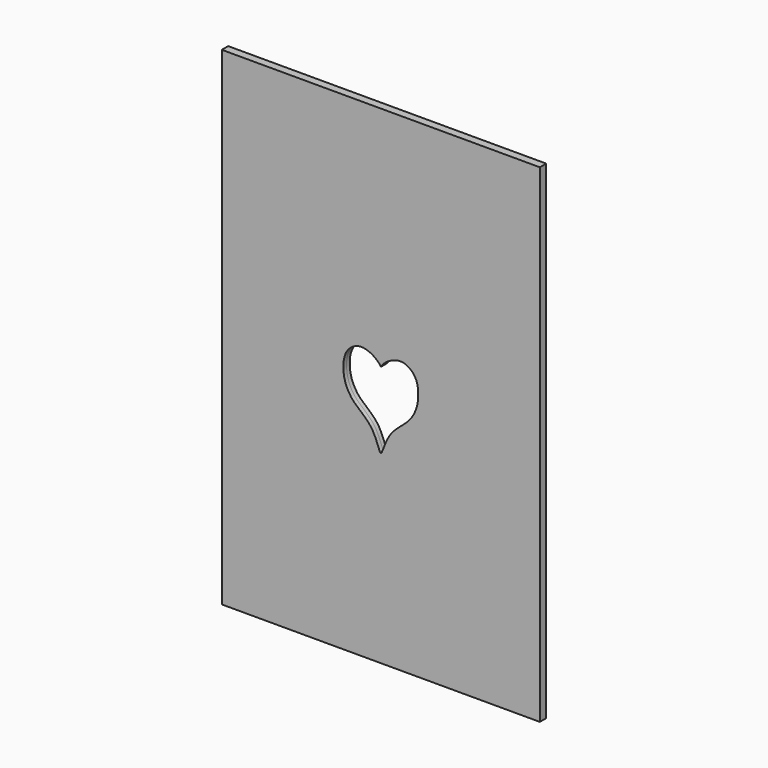
from build123d import *

# Parameters (mm, degrees)
F0_W     = 60.6893710792
F0_H     = 93.1566432118
F1_DEPTH = 0.762


with BuildPart() as f1:
    # F0 (on Front) → F1 (new body, symmetric)
    with BuildSketch(Plane.XZ):
        Rectangle(F0_W, F0_H)
        with BuildLine():
            add(Edge.make_bspline(
                [(0, -11.2666459754), (0.203428969, -11.4833896746), (1.2450240378, -7.1548294967), (5.1595577686, -4.8465718384), (7.1053896952, -1.5087208725), (7.2551979232, 1.8953306479), (6.4913965739, 4.1078952382), (4.3129073884, 5.6533398024), (1.7927746722, 5.0219402744), (0.2921866023, 3.7903101967), (0, 3.1853988767)],
                knots=[0, 0, 0, 0, 0.0973990887, 0.214474845, 0.3143343664, 0.4087756657, 0.4871109843, 0.567320588, 0.6497361985, 0.7315558898, 0.7315558898, 0.7315558898, 0.7315558898], degree=3))
            add(Edge.make_bspline(
                [(0, -11.2666459754), (-0.203428969, -11.4833896746), (-1.2450240378, -7.1548294967), (-5.1595577686, -4.8465718384), (-7.1053896952, -1.5087208725), (-7.2551979232, 1.8953306479), (-6.4913965739, 4.1078952382), (-4.3129073884, 5.6533398024), (-1.7927746722, 5.0219402744), (-0.2921866023, 3.7903101967), (0, 3.1853988767)],
                knots=[0, 0, 0, 0, 0.0973990887, 0.214474845, 0.3143343664, 0.4087756657, 0.4871109843, 0.567320588, 0.6497361985, 0.7315558898, 0.7315558898, 0.7315558898, 0.7315558898], degree=3))
        make_face(mode=Mode.SUBTRACT)
    extrude(amount=F1_DEPTH, both=True)


solid = f1.part
